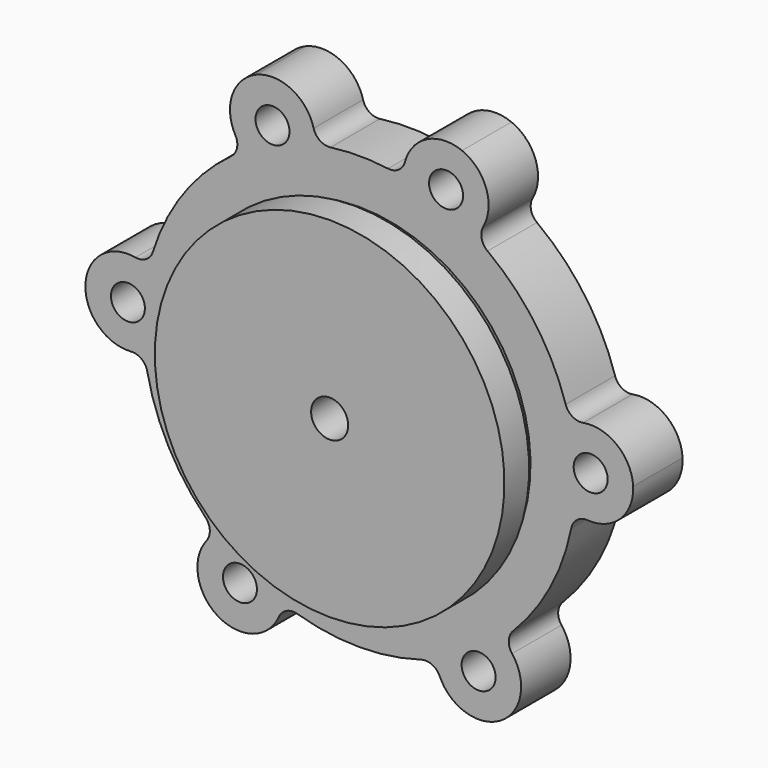
from build123d import *

# Parameters (mm, degrees)
F2_R     = 2.75
F3_DEPTH = 10


with BuildPart() as f1:
    # F0 (on Right) → F1 (revolve)
    with BuildSketch(Plane.YZ):
        Polygon((-7.162217, 3), (8.837783, 3), (8.837783, 7.5), (6.837783, 7.5), (6.837783, 25), (8.837783, 25), (8.837783, 44.3844), (-1.162217, 44.3844), (-1.162217, 27.719139), (-2.162217, 28.296489), (-7.162217, 28.296489), align=None)
    revolve(axis=Axis((0, 14.665759, 0), (0, 1, 0)))

    # F2 (on face) → F3 (cut, through all)
    with BuildSketch(Plane(origin=(0, 8.837783, 0), x_dir=(-1, 0, 0), z_dir=(0, 1, 0))):
        with BuildLine():
            ThreePointArc((-33.402795, 10.45243), (-28.494043, 20.324603), (-20.757853, 28.179985))
            ThreePointArc((-20.757853, 28.179985), (-19.797183, 29.663761), (-20.057996, 31.412033))
            ThreePointArc((-20.057996, 31.412033), (-20.54103, 37.056805), (-16.626689, 41.152499))
            ThreePointArc((-16.626689, 41.152499), (-36.134029, 25.774152), (-44.323573, 2.3229))
            ThreePointArc((-44.323573, 2.3229), (-41.725403, 7.35741), (-36.230905, 8.73845))
            ThreePointArc((-36.230905, 8.73845), (-34.492969, 9.061028), (-33.402795, 10.45243))
        make_face()
        with BuildLine():
            ThreePointArc((-36.945845, -4.903419), (-42.265885, -2.955613), (-44.323573, 2.3229))
            ThreePointArc((-44.323573, 2.3229), (-39.189099, -20.837214), (-22.859656, -38.044856))
            ThreePointArc((-22.859656, -38.044856), (-26.085097, -33.387249), (-24.724973, -27.887537))
            ThreePointArc((-24.724973, -27.887537), (-24.193881, -26.201589), (-24.91061, -24.585799))
            ThreePointArc((-24.91061, -24.585799), (-30.903166, -16.431505), (-34.312387, -6.903627))
            ThreePointArc((-34.312387, -6.903627), (-35.251149, -5.405894), (-36.945845, -4.903419))
        make_face()
        with BuildLine():
            ThreePointArc((-13.015562, -34.923261), (-17.23298, -38.706138), (-22.859656, -38.044856))
            ThreePointArc((-22.859656, -38.044856), (0, -44.3844), (22.859656, -38.044856))
            ThreePointArc((22.859656, -38.044856), (17.23298, -38.706138), (13.015562, -34.923261))
            ThreePointArc((13.015562, -34.923261), (11.776291, -33.66283), (10.013149, -33.537097))
            ThreePointArc((10.013149, -33.537097), (0, -35), (-10.013149, -33.537097))
            ThreePointArc((-10.013149, -33.537097), (-11.776291, -33.66283), (-13.015562, -34.923261))
        make_face()
        with BuildLine():
            ThreePointArc((44.3844, 0), (44.369191, 1.161848), (44.323573, 2.3229))
            ThreePointArc((44.323573, 2.3229), (42.265885, -2.955613), (36.945845, -4.903419))
            ThreePointArc((36.945845, -4.903419), (35.251149, -5.405894), (34.312387, -6.903627))
            ThreePointArc((34.312387, -6.903627), (30.903166, -16.431505), (24.91061, -24.585799))
            ThreePointArc((24.91061, -24.585799), (24.193881, -26.201589), (24.724973, -27.887537))
            ThreePointArc((24.724973, -27.887537), (26.085097, -33.387249), (22.859656, -38.044856))
            ThreePointArc((22.859656, -38.044856), (38.630215, -21.855924), (44.3844, 0))
        make_face()
        with BuildLine():
            ThreePointArc((44.323573, 2.3229), (36.134029, 25.774152), (16.626689, 41.152499))
            ThreePointArc((16.626689, 41.152499), (20.54103, 37.056805), (20.057996, 31.412033))
            ThreePointArc((20.057996, 31.412033), (19.797183, 29.663761), (20.757853, 28.179985))
            ThreePointArc((20.757853, 28.179985), (28.494043, 20.324603), (33.402795, 10.45243))
            ThreePointArc((33.402795, 10.45243), (34.492969, 9.061028), (36.230905, 8.73845))
            ThreePointArc((36.230905, 8.73845), (41.725403, 7.35741), (44.323573, 2.3229))
        make_face()
        with BuildLine():
            ThreePointArc((16.626689, 41.152499), (0, 44.3844), (-16.626689, 41.152499))
            ThreePointArc((-16.626689, 41.152499), (-10.965839, 40.925433), (-7.392117, 36.52938))
            ThreePointArc((-7.392117, 36.52938), (-6.365278, 35.090603), (-4.643513, 34.690601))
            ThreePointArc((-4.643513, 34.690601), (0, 35), (4.643513, 34.690601))
            ThreePointArc((4.643513, 34.690601), (6.365278, 35.090603), (7.392117, 36.52938))
            ThreePointArc((7.392117, 36.52938), (10.965839, 40.925433), (16.626689, 41.152499))
        make_face()
        with Locations((-14.047747, 34.769395)):
            Circle(F2_R)
        with Locations((14.047747, 34.769395)):
            Circle(F2_R)
        with Locations((37.448608, 1.962598)):
            Circle(F2_R)
        with Locations((19.313928, -32.143774)):
            Circle(F2_R)
        with Locations((-19.313928, -32.143774)):
            Circle(F2_R)
        with Locations((-37.448608, 1.962598)):
            Circle(F2_R)
    extrude(amount=-F3_DEPTH, mode=Mode.SUBTRACT)


solid = f1.part
